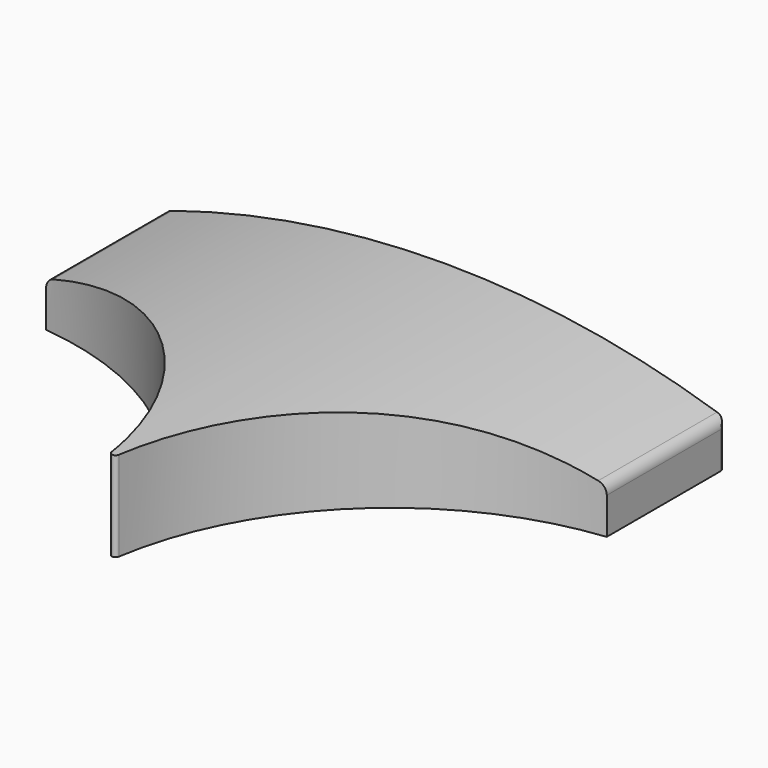
from build123d import *

# Parameters (mm, degrees)
F1_DEPTH = 50.8
F2_W     = 342.9
F2_H     = 76.2
F3_DEPTH = 127


with BuildPart() as f1:
    # F0 (on Top) → F1 (new body)
    with BuildSketch(Plane.XY):
        with BuildLine():
            Line((155.575, 117.475), (-155.575, 117.475))
            ThreePointArc((-155.575, 117.475), (-157.820064, 116.545064), (-158.75, 114.3))
            Line((-158.75, 114.3), (-158.75, 33.901519))
            ThreePointArc((-158.75, 33.901519), (-55.013583, -14.281315), (-2.091765, -115.682059))
            ThreePointArc((-2.091765, -115.682059), (0, -117.475), (2.091765, -115.682059))
            ThreePointArc((2.091765, -115.682059), (55.013583, -14.281315), (158.75, 33.901519))
            Line((158.75, 33.901519), (158.75, 114.3))
            ThreePointArc((158.75, 114.3), (157.820064, 116.545064), (155.575, 117.475))
        make_face()
    extrude(amount=-F1_DEPTH)

    # F2 (on Front) → F3 (cut, symmetric)
    with BuildSketch(Plane.XZ):
        with Locations((0, -25.4)):
            Rectangle(F2_W, F2_H)
        with BuildLine():
            Line((158.75, -50.8), (-158.75, -50.8))
            Line((-158.75, -50.8), (-158.75, -30.059666))
            ThreePointArc((-158.75, -30.059666), (-157.527006, -26.31316), (-154.329114, -24.009789))
            ThreePointArc((-154.329114, -24.009789), (0, 0), (154.329114, -24.009789))
            ThreePointArc((154.329114, -24.009789), (157.527006, -26.31316), (158.75, -30.059666))
            Line((158.75, -30.059666), (158.75, -50.8))
        make_face(mode=Mode.SUBTRACT)
    extrude(amount=F3_DEPTH, both=True, mode=Mode.SUBTRACT)


solid = f1.part
